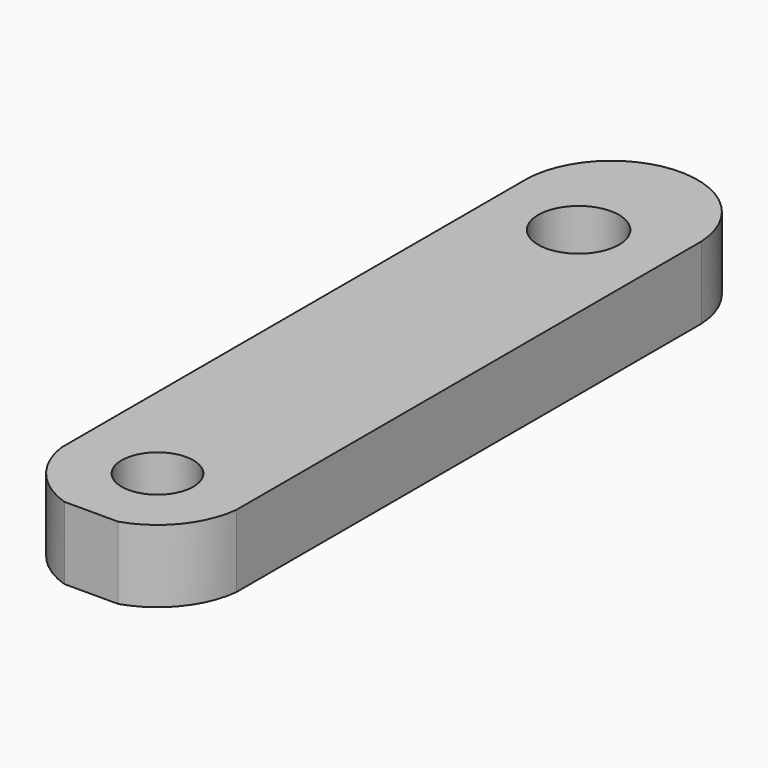
from build123d import *

# Parameters (mm, degrees)
F0_W     = 18.1465977803
F0_H     = 77.7187608182
F1_DEPTH = 7.62
F3_DEPTH = 25.4
F4_R     = 3.7710052393
F4_R_2   = 4.2515891663
F5_DEPTH = 25.4


with BuildPart() as f1:
    # F0 (on Top) → F1 (new body)
    with BuildSketch(Plane.XY):
        with Locations((-18.3298974298, -4.2158756405)):
            Rectangle(F0_W, F0_H)
    extrude(amount=F1_DEPTH)

    # F2 (on face) → F3 (cut)
    with BuildSketch(Plane.XY.offset(7.62)):
        with BuildLine():
            ThreePointArc((-27.4031963199, 25.4119987424), (-18.5065865257, 34.3413978482), (-9.2565985397, 25.7785971101))
            Line((-9.2565985397, 25.7785971101), (-9.2565985397, 34.6435047686))
            Line((-9.2565985397, 34.6435047686), (-27.4031963199, 34.6435047686))
            Line((-27.4031963199, 34.6435047686), (-27.4031963199, 25.4119987424))
        make_face()
        with BuildLine():
            Line((-27.4031963199, -43.0752560496), (-21.1813880653, -43.0752560496))
            ThreePointArc((-21.1813880653, -43.0752560496), (-25.3327232093, -40.2921749844), (-27.4031963199, -35.7432998717))
            Line((-27.4031963199, -35.7432998717), (-27.4031963199, -43.0752560496))
        make_face()
        with BuildLine():
            Line((-9.2565985397, -43.0752560496), (-9.2565985397, -35.376701504))
            ThreePointArc((-9.2565985397, -35.376701504), (-11.2569593187, -40.150009887), (-15.526485177, -43.0752560496))
            Line((-15.526485177, -43.0752560496), (-9.2565985397, -43.0752560496))
        make_face()
    extrude(amount=-F3_DEPTH, mode=Mode.SUBTRACT)

    # F4 (on face) → F5 (cut)
    with BuildSketch(Plane.XY.offset(7.62)):
        with Locations((-18.3539366212, -34.3700621202)):
            Circle(F4_R)
        with Locations((-18.4215474874, 21.0793800652)):
            Circle(F4_R_2)
    extrude(amount=-F5_DEPTH, mode=Mode.SUBTRACT)


solid = f1.part
